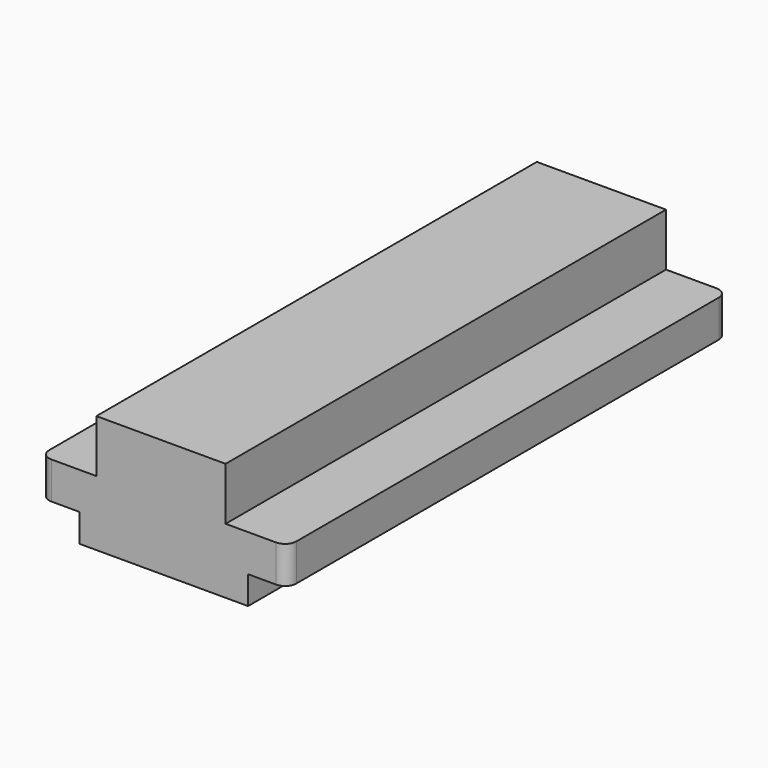
from build123d import *

# Parameters (mm, degrees)
BOX011_W     = 11.5
BOX011_H     = 49
BOX011_DEPTH = 8
BOX010_W     = 22
BOX010_H     = 49
BOX010_DEPTH = 3.3
FILLET006_R  = 1
BOX012_W     = 15
BOX012_H     = 49
BOX012_DEPTH = 3


with BuildPart() as box011:
    # Box011 → Box011 (new body)
    with BuildSketch(Plane(origin=(-38, -0.2, 84.5), x_dir=(1, 0, 0), z_dir=(0, 0, 1))):
        with Locations((5.75, 24.5)):
            Rectangle(BOX011_W, BOX011_H)
    extrude(amount=BOX011_DEPTH)


with BuildPart() as fillet006:
    # Box010 → Box010 (new body)
    with BuildSketch(Plane(origin=(-43, -0.2, 84.5), x_dir=(1, 0, 0), z_dir=(0, 0, 1))):
        with Locations((11, 24.5)):
            Rectangle(BOX010_W, BOX010_H)
    extrude(amount=BOX010_DEPTH)

    # Fillet006
    fillet006_edges = [fillet006.edges().sort_by_distance(p)[0] for p in [
        (-43, -0.2, 86.15),
        (-43, 48.8, 86.15),
        (-21, -0.2, 86.15),
        (-21, 48.8, 86.15),
    ]]
    fillet(fillet006_edges, radius=FILLET006_R)


with BuildPart() as fusion002007:
    # Box012 → Box012 (new body)
    with BuildSketch(Plane(origin=(-39.5, -0.2, 82), x_dir=(1, 0, 0), z_dir=(0, 0, 1))):
        with Locations((7.5, 24.5)):
            Rectangle(BOX012_W, BOX012_H)
    extrude(amount=BOX012_DEPTH)

    # Fusion002007: union Box011, Fillet006
    add(box011.part)
    add(fillet006.part)


with BuildPart() as fusion002007_1:
    # Fusion002007 placement: moved
    add(fusion002007.part.moved(Location((0, 0, -42))))


solid = fusion002007_1.part
